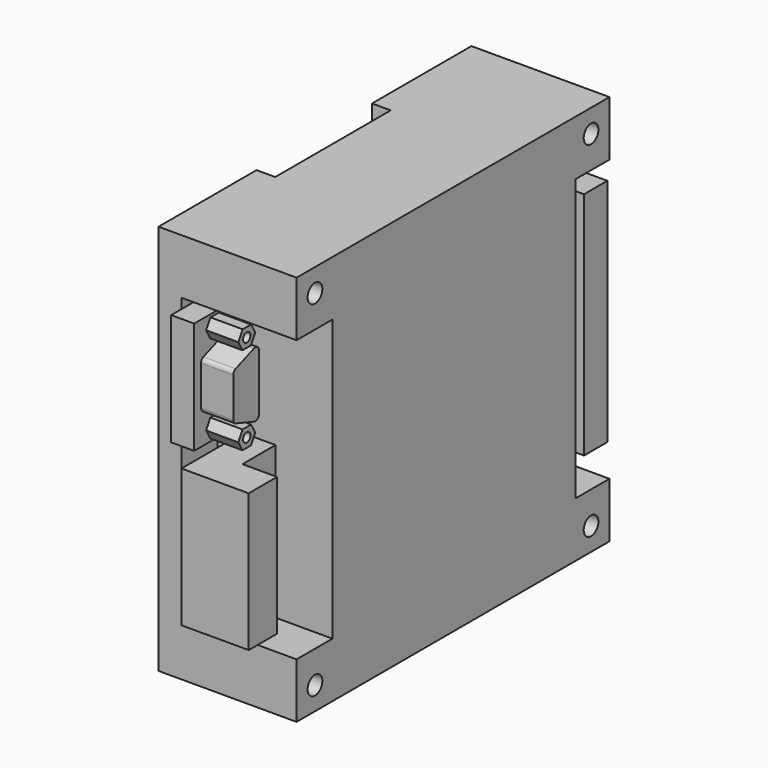
from build123d import *

# Parameters (mm, degrees)
F1_DEPTH  = 85
F2_R      = 2
F3_DEPTH  = 10
F4_W      = 19.472218
F4_H      = 61.057516
F4_W_2    = 18.561906
F5_DEPTH  = 25
F8_DEPTH  = 50
F10_DEPTH = 30
F11_W     = 10.871612
F11_H     = 24.349149
F12_DEPTH = 5
F13_R     = 1
F14_DEPTH = 7


with BuildPart() as f1:
    # F0 (on Top) → F1 (new body)
    with BuildSketch(Plane.XY):
        Polygon((15, 42.5), (-15, 42.5), (-15, 15.500662), (-10.938493, 15.500662), (-10.938493, -15.873631), (-15, -15.873631), (-15, -42.5), (15, -42.5), align=None)
    extrude(amount=F1_DEPTH)

    # F2 (on face) → F3 (cut)
    with BuildSketch(Plane.YZ.offset(15)):
        with Locations((-37.5, 5)):
            Circle(F2_R)
        with Locations((37.5, 5)):
            Circle(F2_R)
        with Locations((37.5, 80)):
            Circle(F2_R)
        with Locations((-37.5, 80)):
            Circle(F2_R)
    extrude(amount=-F3_DEPTH, mode=Mode.SUBTRACT)

    # F4 (on face) → F5 (cut)
    with BuildSketch(Plane.YZ.offset(15)):
        with Locations((-42.5, 42.5)):
            Rectangle(F4_W, F4_H)
        with Locations((42.5, 42.5)):
            Rectangle(F4_W_2, F4_H)
    extrude(amount=-F5_DEPTH, mode=Mode.SUBTRACT)

    # F7 (on offset) → F8 (join)
    with BuildSketch(Plane.XY.offset(15)):
        Polygon((-4.637186, 48.255824), (-4.637186, 33.027273), (2.820976, 33.027273), (2.820976, 41.918974), (9.94103, 41.918974), (9.94103, 48.255824), (2.820976, 48.255824), align=None)
    extrude(amount=F8_DEPTH)

    # F9 (on offset) → F10 (join)
    with BuildSketch(Plane.XY.offset(15)):
        Polygon((2.636472, -32.500222), (-4.438653, -32.500222), (-4.438653, -49.462382), (2.636472, -49.462382), (10.165131, -49.462382), (10.165131, -41.752309), (2.636472, -41.752309), align=None)
    extrude(amount=F10_DEPTH)

    # F11 (on face) → F12 (join)
    with BuildSketch(Plane.YZ.offset(-10)):
        with Locations((-39.88678, 58.680521)):
            Rectangle(F11_W, F11_H)
    extrude(amount=F12_DEPTH)

    # F13 (on face) → F14 (join)
    with BuildSketch(Plane.YZ.offset(-5)):
        with BuildLine():
            Line((-36.450974, 52.248876), (-36.450974, 64.410565))
            ThreePointArc((-36.450974, 64.410565), (-36.881787, 65.232773), (-37.803027, 65.346545))
            Line((-37.803027, 65.346545), (-42.803027, 63.465884))
            ThreePointArc((-42.803027, 63.465884), (-43.273182, 63.099091), (-43.450974, 62.529904))
            Line((-43.450974, 62.529904), (-43.450974, 53.939643))
            ThreePointArc((-43.450974, 53.939643), (-43.263481, 53.356691), (-42.771309, 52.992339))
            Line((-42.771309, 52.992339), (-37.771309, 51.301572))
            ThreePointArc((-37.771309, 51.301572), (-36.868022, 51.436369), (-36.450974, 52.248876))
        make_face()
        Polygon((-42.087062, 68.266637), (-40.955583, 66.253409), (-38.646336, 66.226684), (-37.468569, 68.213188), (-38.600048, 70.226416), (-40.909294, 70.253141), align=None)
        with Locations((-39.777815, 68.239912)):
            Circle(F13_R, mode=Mode.SUBTRACT)
        Polygon((-42.087215, 49.099645), (-40.929939, 47.101134), (-38.62054, 47.104108), (-37.468416, 49.105594), (-38.625692, 51.104105), (-40.935091, 51.10113), align=None)
        with Locations((-39.777815, 49.102619)):
            Circle(F13_R, mode=Mode.SUBTRACT)
    extrude(amount=F14_DEPTH)


solid = f1.part
